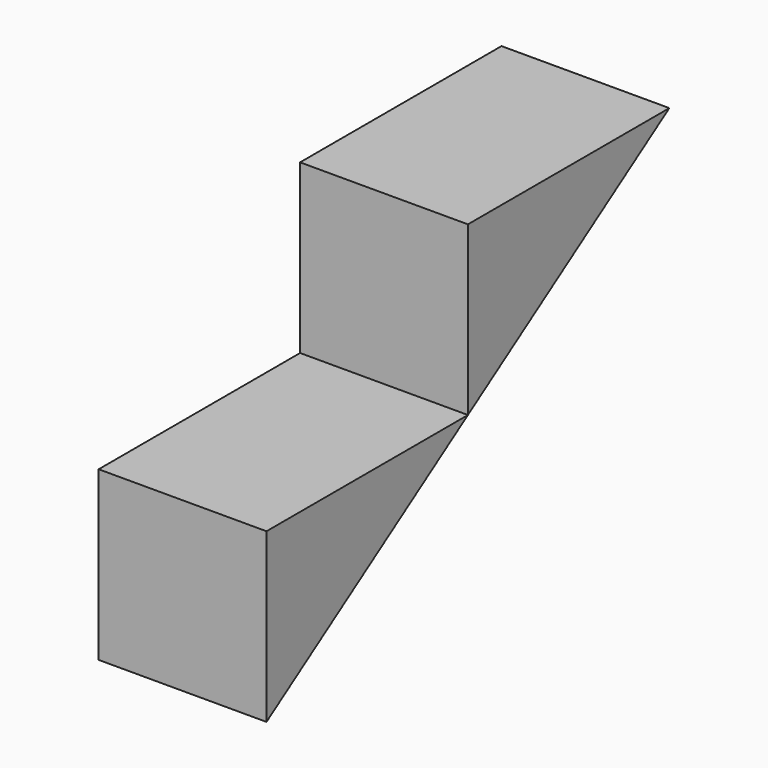
from build123d import *

# Parameters (mm, degrees)
F1_DEPTH = 12.7


with BuildPart() as f1:
    # F0 (on Right) → F1 (new body)
    with BuildSketch(Plane.YZ):
        Polygon((19.05, 1.533672), (38.1, 14.233672), (19.05, 14.233672), align=None)
        Polygon((0, -11.166328), (19.05, 1.533672), (0, 1.533672), align=None)
    extrude(amount=F1_DEPTH)


solid = f1.part
